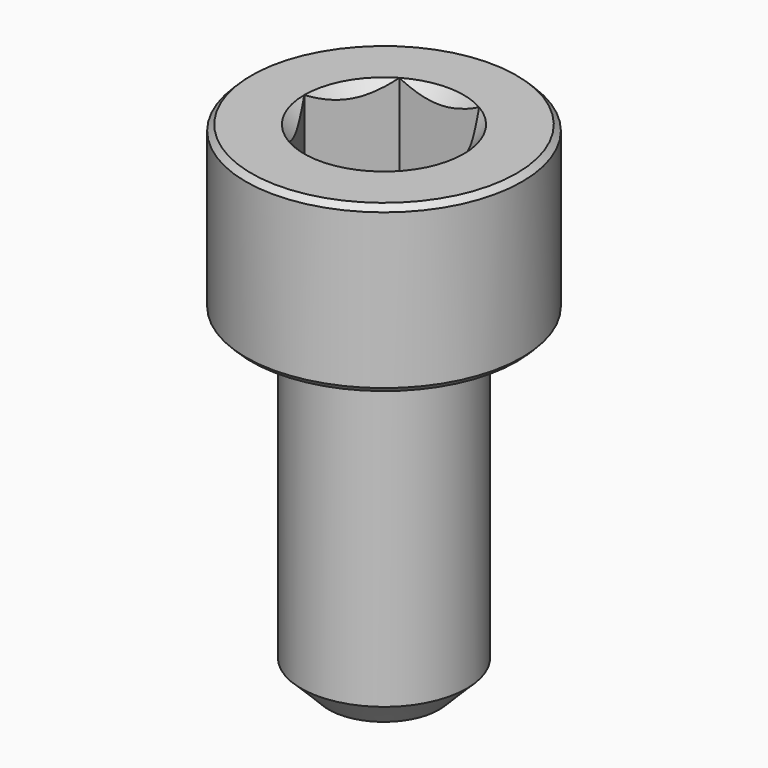
from build123d import *

# Parameters (mm, degrees)
SKETCH001_R     = 6
POCKET_DEPTH    = 8.820854
CHAMFER_SIZE    = 1
CHAMFER001_SIZE = 0.2


with BuildPart() as pocket:
    # Sketch003 → Revolution001 (revolve)
    with BuildSketch(Plane.XZ):
        Polygon((0, 1.180146), (5, 3), (5, 10), (0, 10), align=None)
    revolve(axis=Axis((0, 0, 0), (0, 0, 1)))

    # Sketch001 → Pocket (cut, through all)
    with BuildSketch(Plane(origin=(0, 0, 10), x_dir=(-1, 0, 0), z_dir=(0, 0, 1))):
        Circle(SKETCH001_R)
        Polygon((-1.443376, 2.5), (1.443376, 2.5), (2.886751, 0), (1.443376, -2.5), (-1.443376, -2.5), (-2.886751, 0), align=None, mode=Mode.SUBTRACT)
    extrude(amount=-POCKET_DEPTH, mode=Mode.SUBTRACT)


with BuildPart() as chamfer001:
    # Sketch → Revolution (revolve)
    with BuildSketch(Plane.XZ):
        Polygon((2.88675, 6), (5, 6), (5, 0), (3, 0), (3, -12), (0, -12), (0, 3.113247), align=None)
    revolve(axis=Axis((0, 0, 0), (0, 0, 1)))

    # Cut: cut Pocket
    add(pocket.part, mode=Mode.SUBTRACT)

    # Chamfer
    chamfer_edges = [chamfer001.edges().sort_by_distance(p)[0] for p in [
        (-3, 0, -12),
    ]]
    chamfer(chamfer_edges, length=CHAMFER_SIZE)

    # Chamfer001
    chamfer001_edges = [chamfer001.edges().sort_by_distance(p)[0] for p in [
        (-5, 0, 6),
        (-5, 0, 0),
    ]]
    chamfer(chamfer001_edges, length=CHAMFER001_SIZE)


solid = chamfer001.part
